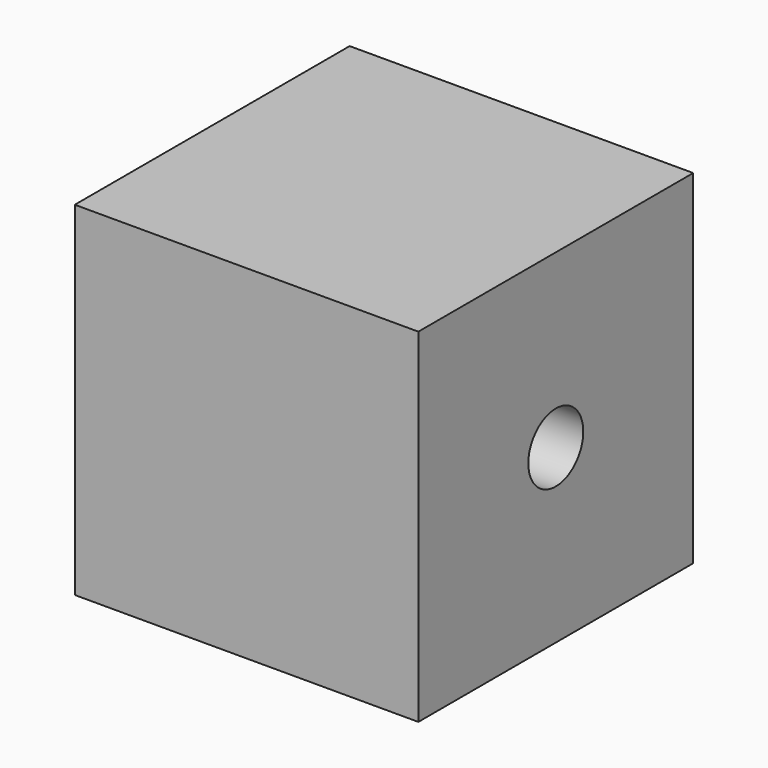
from build123d import *

# Parameters (mm, degrees)
F0_W     = 15.24
F0_H     = 15.24
F1_DEPTH = 7.62
F3_D     = 3.048
F3_DEPTH = 10.16
F3_TIP   = 0.9157115834
F5_D     = 3.048
F5_DEPTH = 10.16
F5_TIP   = 0.9157115834
F7_D     = 3.048
F7_DEPTH = 10.16
F7_TIP   = 0.9157115834


with BuildPart() as f1:
    # F0 (on Front) → F1 (new body, symmetric)
    with BuildSketch(Plane.XZ):
        Rectangle(F0_W, F0_H)
    extrude(amount=F1_DEPTH, both=True)

    # F3 (one way)
    with BuildSketch(Plane.XY):
        with Locations((0, 0)):
            Circle(F3_D / 2)
    extrude(amount=-F3_DEPTH, mode=Mode.SUBTRACT)
    with Locations(Plane.XY):
        with Locations((0, 0)):
            with Locations((0, 0, -(F3_DEPTH + F3_TIP / 2))):  # 118° drill point
                Cone(0, F3_D / 2, F3_TIP, mode=Mode.SUBTRACT)

    # F5
    with Locations(Plane.YZ.offset(7.62)):
        with Locations((0, 0)):
            Hole(F5_D / 2, depth=F5_DEPTH)
            with Locations((0, 0, -(F5_DEPTH + F5_TIP / 2))):  # 118° drill point
                Cone(0, F5_D / 2, F5_TIP, mode=Mode.SUBTRACT)

    # F7
    with Locations(Plane(origin=(0, 7.62, 0), x_dir=(-1, 0, 0), z_dir=(0, 1, 0))):
        with Locations((0, 0)):
            Hole(F7_D / 2, depth=F7_DEPTH)
            with Locations((0, 0, -(F7_DEPTH + F7_TIP / 2))):  # 118° drill point
                Cone(0, F7_D / 2, F7_TIP, mode=Mode.SUBTRACT)


solid = f1.part
